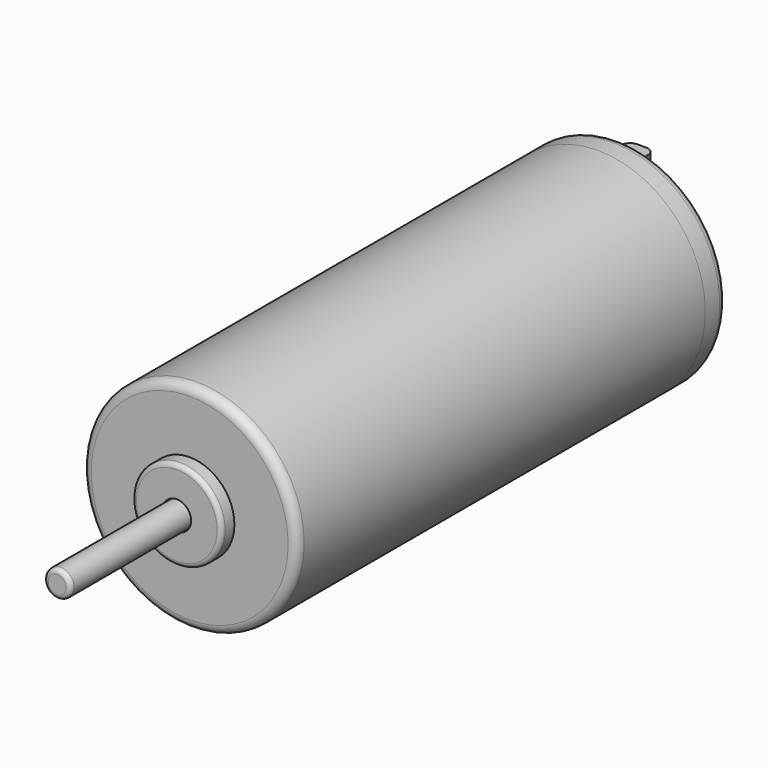
from build123d import *

# Parameters (mm, degrees)
F0_R      = 6
F1_DEPTH  = 28.5
F2_R      = 2.5
F3_DEPTH  = 0.9
F4_R      = 6
F4_R_2    = 2.5
F5_DEPTH  = 1.5
F6_R      = 2.5
F7_DEPTH  = 0.75
F8_R      = 0.8
F9_DEPTH  = 30
F10_R     = 0.75
F11_DEPTH = 40
F12_W     = 1.5
F12_H     = 0.35
F13_DEPTH = 2.5
F14_R     = 0.5
F15_R     = 0.25
F15_2_R   = 0.25


with BuildPart() as f1:
    # F0 (on Front) → F1 (new body)
    with BuildSketch(Plane.XZ):
        Circle(F0_R)
    extrude(amount=F1_DEPTH)

    # F2 (on face) → F3 (join)
    with BuildSketch(Plane.XZ.offset(28.5)):
        Circle(F2_R)
    extrude(amount=F3_DEPTH)

    # F4 (on face) → F5 (join)
    with BuildSketch(Plane(origin=(0, 0, 0), x_dir=(-1, 0, 0), z_dir=(0, 1, 0))):
        Circle(F4_R)
        Circle(F4_R_2, mode=Mode.SUBTRACT)
        Circle(F4_R_2)
    extrude(amount=F5_DEPTH)

    # F6 (on face) → F7 (join)
    with BuildSketch(Plane(origin=(0, 1.5, 0), x_dir=(-1, 0, 0), z_dir=(0, 1, 0))):
        Circle(F6_R)
    extrude(amount=F7_DEPTH)

    # F8 (on Front) → F9 (cut, symmetric)
    with BuildSketch(Plane.XZ):
        Circle(F8_R)
    extrude(amount=F9_DEPTH, both=True, mode=Mode.SUBTRACT)

    # F12 (on face) → F13 (join)
    with BuildSketch(Plane(origin=(0, 1.5, 0), x_dir=(-1, 0, 0), z_dir=(0, 1, 0))):
        with Locations((-0.75, -4.175)):
            Rectangle(F12_W, F12_H)
        with Locations((0.75, 4.175)):
            Rectangle(F12_W, F12_H)
    extrude(amount=F13_DEPTH)

    # F14
    f14_edges = [f1.edges().sort_by_distance(p)[0] for p in [
        (6, 1.5, 0),
        (-1.5, 4, 4.175),
        (0, 4, 4.175),
        (0, 4, -4.175),
        (1.5, 4, -4.175),
        (-6, -28.5, 0),
    ]]
    fillet(f14_edges, radius=F14_R)

    # F15
    f15_edges = [f1.edges().sort_by_distance(p)[0] for p in [
        (-2.5, -29.4, 0),
        (2.5, 2.25, 0),
    ]]
    fillet(f15_edges, radius=F15_R)


with BuildPart() as f11:
    # F10 (on face) → F11 (new body)
    with BuildSketch(Plane(origin=(0, 2.25, 0), x_dir=(-1, 0, 0), z_dir=(0, 1, 0))):
        Circle(F10_R)
    extrude(amount=-F11_DEPTH)

    # F15#2
    f15_2_edges = [f11.edges().sort_by_distance(p)[0] for p in [
        (0.75, 2.25, 0),
        (0.75, -37.75, 0),
    ]]
    fillet(f15_2_edges, radius=F15_2_R)


solid = Compound([f1.part, f11.part])
